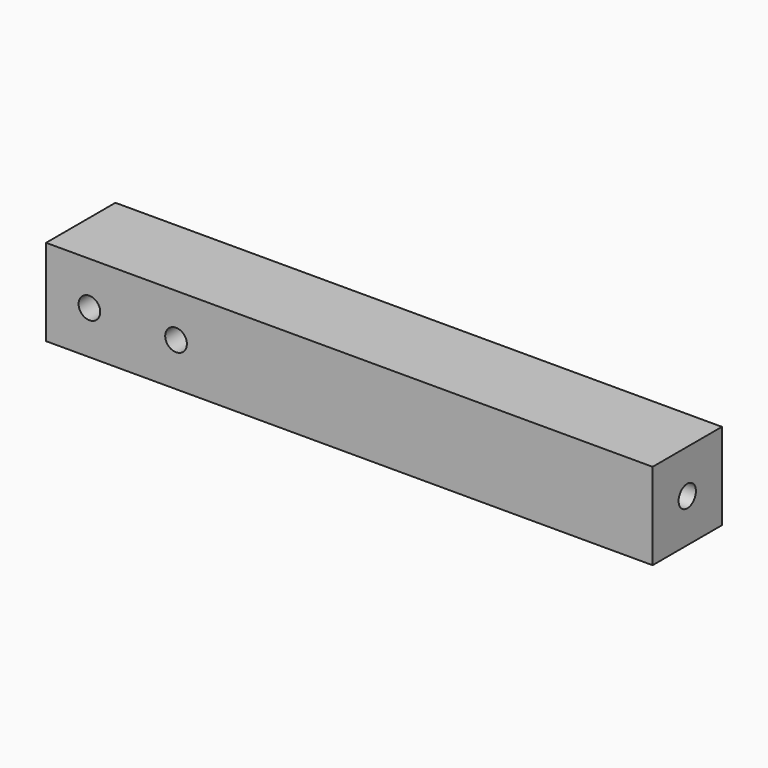
from build123d import *

# Parameters (mm, degrees)
F0_W     = 177.8
F0_H     = 25.4
F1_DEPTH = 25.4
F2_R     = 3.175
F3_DEPTH = 25.4
F4_R     = 3.175
F5_DEPTH = 12.7


with BuildPart() as f1:
    # F0 (on Top) → F1 (new body)
    with BuildSketch(Plane.XY):
        Rectangle(F0_W, F0_H)
    extrude(amount=F1_DEPTH)

    # F2 (on face) → F3 (cut)
    with BuildSketch(Plane.XZ.offset(12.7)):
        with Locations((-76.2, 12.7)):
            Circle(F2_R)
        with Locations((-50.8, 12.7)):
            Circle(F2_R)
    extrude(amount=-F3_DEPTH, mode=Mode.SUBTRACT)

    # F4 (on face) → F5 (cut)
    with BuildSketch(Plane.YZ.offset(88.9)):
        with Locations((0, 12.7)):
            Circle(F4_R)
    extrude(amount=-F5_DEPTH, mode=Mode.SUBTRACT)


solid = f1.part
